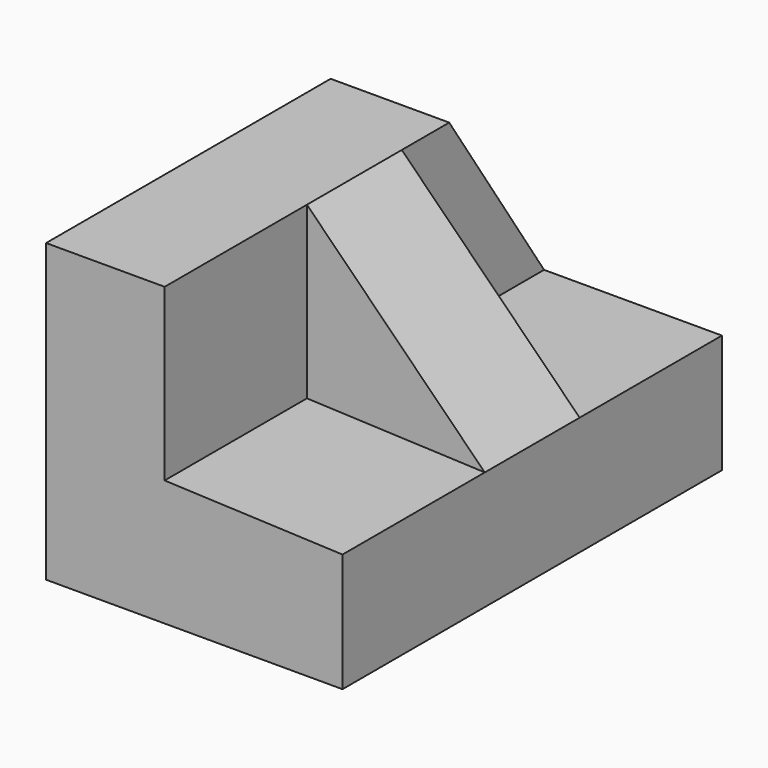
from build123d import *

# Parameters (mm, degrees)
F0_W     = 50.8
F0_H     = 31.75
F1_DEPTH = 31.75
F3_DEPTH = 31.751
F5_DEPTH = 19.05
F7_DEPTH = 31.751
F9_DEPTH = 19.05


with BuildPart() as f1:
    # F0 (on Right) → F1 (new body)
    with BuildSketch(Plane.YZ):
        with Locations((-25.4, 15.875)):
            Rectangle(F0_W, F0_H)
    extrude(amount=F1_DEPTH)

    # F2 (on face) → F3 (cut, through all)
    with BuildSketch(Plane.YZ.offset(31.75)):
        Polygon((0, 31.75), (-12.7, 31.75), (0, 12.7), align=None)
    extrude(amount=-F3_DEPTH, mode=Mode.SUBTRACT)

    # F4 (on face) → F5 (cut)
    with BuildSketch(Plane.YZ.offset(31.75)):
        Polygon((0, 12.7), (-12.7, 31.75), (-19.05, 31.75), (-19.05, 12.7), align=None)
    extrude(amount=-F5_DEPTH, mode=Mode.SUBTRACT)

    # F6 (on face) → F7 (cut, through all)
    with BuildSketch(Plane(origin=(0, -19.05, 0), x_dir=(-1, 0, 0), z_dir=(0, 1, 0))):
        Polygon((-31.75, 12.7), (-12.7, 31.75), (-31.75, 31.75), align=None)
    extrude(amount=-F7_DEPTH, mode=Mode.SUBTRACT)

    # F8 (on face) → F9 (cut)
    with BuildSketch(Plane.XZ.offset(50.8)):
        Polygon((31.75, 12.7), (12.7, 31.75), (12.7, 13.490058), align=None)
    extrude(amount=-F9_DEPTH, mode=Mode.SUBTRACT)


solid = f1.part
